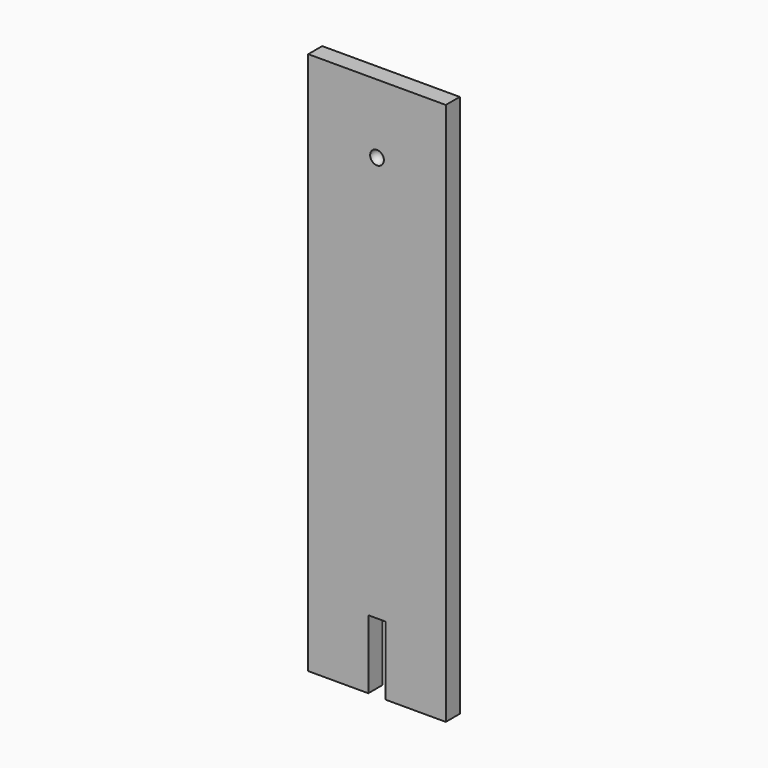
from build123d import *

# Parameters (mm, degrees)
F0_W     = 50
F0_H     = 197.460108
F1_DEPTH = 3.175
F4_W     = 6.35
F4_H     = 25
F5_DEPTH = 6.351


with BuildPart() as f1:
    # F0 (on Front) → F1 (new body, symmetric)
    with BuildSketch(Plane.XZ):
        Rectangle(F0_W, F0_H)
    extrude(amount=F1_DEPTH, both=True)

    # F2 (on face) → F3 (revolve, cut)
    with BuildSketch(Plane.XZ.offset(3.175)):
        with BuildLine():
            ThreePointArc((0, 71.230054), (2.5, 73.730054), (0, 76.230054))
            Line((0, 76.230054), (0, 71.230054))
        make_face()
    revolve(axis=Axis((0, -3.175, 73.730054), (0, 0, -1)), mode=Mode.SUBTRACT)

    # F4 (on face) → F5 (cut, through all)
    with BuildSketch(Plane.XZ.offset(3.175)):
        with Locations((0, -86.230054)):
            Rectangle(F4_W, F4_H)
    extrude(amount=-F5_DEPTH, mode=Mode.SUBTRACT)


solid = f1.part
